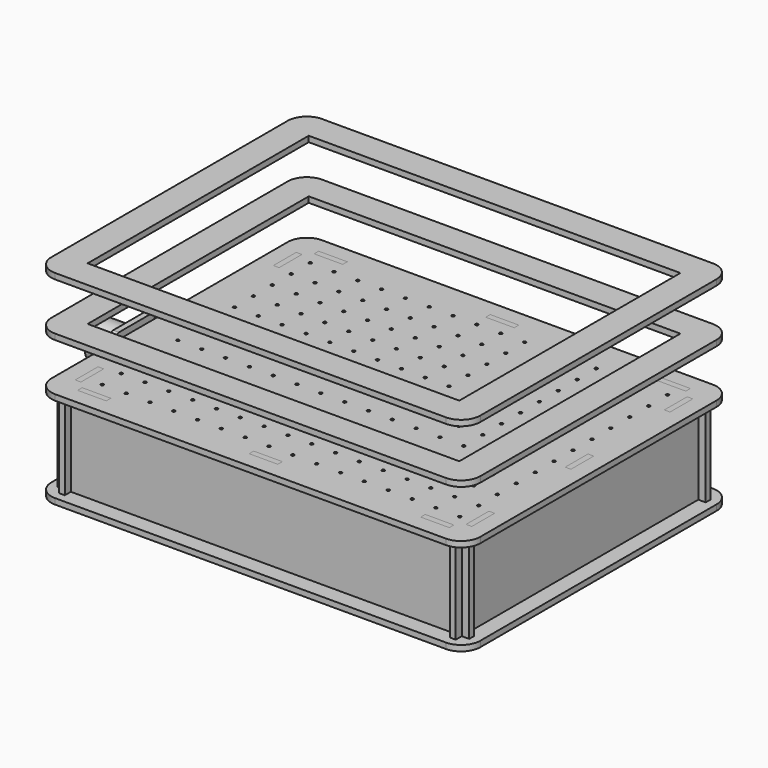
from build123d import *

# Parameters (mm, degrees)
F0_W      = 30
F0_H      = 5.8
F0_R      = 1.5
F0_W_2    = 5.8
F0_H_2    = 30
F1_DEPTH  = 6
F3_W      = 30
F3_H      = 5.8
F3_W_2    = 5.8
F3_H_2    = 30
F4_DEPTH  = 6
F7_DEPTH  = 6
F10_DEPTH = 6
F14_DEPTH = 3
F16_DEPTH = 3
F18_W     = 390
F18_H     = 290
F19_DEPTH = 6
F22_R     = 20
F22_R_2   = 2
F23_DEPTH = 12.5
F25_R     = 20
F25_R_2   = 17.5
F26_DEPTH = 40
F25_R_3   = 2
F27_DEPTH = 6


with BuildPart() as f1:
    # F0 (on Top) → F1 (new body)
    with BuildSketch(Plane.XY):
        with BuildLine():
            ThreePointArc((225, 155), (219.1421356237, 169.1421356237), (205, 175))
            Line((205, 175), (-205, 175))
            ThreePointArc((-205, 175), (-219.1421356237, 169.1421356237), (-225, 155))
            Line((-225, 155), (-225, -155))
            ThreePointArc((-225, -155), (-219.1421356237, -169.1421356237), (-205, -175))
            Line((-205, -175), (205, -175))
            ThreePointArc((205, -175), (219.1421356237, -169.1421356237), (225, -155))
            Line((225, -155), (225, 155))
        make_face()
        with Locations((-180, -155)):
            Rectangle(F0_W, F0_H, mode=Mode.SUBTRACT)
        with Locations((-185.6034933766, -137.4934603997)):
            Circle(F0_R, mode=Mode.SUBTRACT)
        with Locations((-160.6034933766, -137.4934603997)):
            Circle(F0_R, mode=Mode.SUBTRACT)
        with Locations((-135.6034933766, -137.4934603997)):
            Circle(F0_R, mode=Mode.SUBTRACT)
        with Locations((-205, -130)):
            Rectangle(F0_W_2, F0_H_2, mode=Mode.SUBTRACT)
        with Locations((-185.7759030696, -112.4940549089)):
            Circle(F0_R, mode=Mode.SUBTRACT)
        with Locations((-160.7759030696, -112.4940549089)):
            Circle(F0_R, mode=Mode.SUBTRACT)
        with Locations((-135.7759030696, -112.4940549089)):
            Circle(F0_R, mode=Mode.SUBTRACT)
        with Locations((-110.6034933766, -137.4934603997)):
            Circle(F0_R, mode=Mode.SUBTRACT)
        with Locations((-85.6034933766, -137.4934603997)):
            Circle(F0_R, mode=Mode.SUBTRACT)
        with Locations((-60.6034933766, -137.4934603997)):
            Circle(F0_R, mode=Mode.SUBTRACT)
        with Locations((-35.6034933766, -137.4934603997)):
            Circle(F0_R, mode=Mode.SUBTRACT)
        with Locations((-10.6034933766, -137.4934603997)):
            Circle(F0_R, mode=Mode.SUBTRACT)
        with Locations((-110.7759030696, -112.4940549089)):
            Circle(F0_R, mode=Mode.SUBTRACT)
        with Locations((-85.7759030696, -112.4940549089)):
            Circle(F0_R, mode=Mode.SUBTRACT)
        with Locations((-60.7759030696, -112.4940549089)):
            Circle(F0_R, mode=Mode.SUBTRACT)
        with Locations((-35.7759030696, -112.4940549089)):
            Circle(F0_R, mode=Mode.SUBTRACT)
        with Locations((-10.7759030696, -112.4940549089)):
            Circle(F0_R, mode=Mode.SUBTRACT)
        with Locations((-185.9483127626, -87.494649418)):
            Circle(F0_R, mode=Mode.SUBTRACT)
        with Locations((-186.1207224557, -62.4952439271)):
            Circle(F0_R, mode=Mode.SUBTRACT)
        with Locations((-160.9483127626, -87.494649418)):
            Circle(F0_R, mode=Mode.SUBTRACT)
        with Locations((-135.9483127626, -87.494649418)):
            Circle(F0_R, mode=Mode.SUBTRACT)
        with Locations((-161.1207224557, -62.4952439271)):
            Circle(F0_R, mode=Mode.SUBTRACT)
        with Locations((-136.1207224557, -62.4952439271)):
            Circle(F0_R, mode=Mode.SUBTRACT)
        with Locations((-186.2931321487, -37.4958384362)):
            Circle(F0_R, mode=Mode.SUBTRACT)
        with Locations((-186.4655418418, -12.4964329453)):
            Circle(F0_R, mode=Mode.SUBTRACT)
        with Locations((-161.2931321487, -37.4958384362)):
            Circle(F0_R, mode=Mode.SUBTRACT)
        with Locations((-136.2931321487, -37.4958384362)):
            Circle(F0_R, mode=Mode.SUBTRACT)
        with Locations((-161.4655418418, -12.4964329453)):
            Circle(F0_R, mode=Mode.SUBTRACT)
        with Locations((-136.4655418418, -12.4964329453)):
            Circle(F0_R, mode=Mode.SUBTRACT)
        with Locations((-110.9483127626, -87.494649418)):
            Circle(F0_R, mode=Mode.SUBTRACT)
        with Locations((-85.9483127626, -87.494649418)):
            Circle(F0_R, mode=Mode.SUBTRACT)
        with Locations((-60.9483127626, -87.494649418)):
            Circle(F0_R, mode=Mode.SUBTRACT)
        with Locations((-111.1207224557, -62.4952439271)):
            Circle(F0_R, mode=Mode.SUBTRACT)
        with Locations((-86.1207224557, -62.4952439271)):
            Circle(F0_R, mode=Mode.SUBTRACT)
        with Locations((-61.1207224557, -62.4952439271)):
            Circle(F0_R, mode=Mode.SUBTRACT)
        with Locations((-35.9483127626, -87.494649418)):
            Circle(F0_R, mode=Mode.SUBTRACT)
        with Locations((-10.9483127626, -87.494649418)):
            Circle(F0_R, mode=Mode.SUBTRACT)
        with Locations((-36.1207224557, -62.4952439271)):
            Circle(F0_R, mode=Mode.SUBTRACT)
        with Locations((-11.1207224557, -62.4952439271)):
            Circle(F0_R, mode=Mode.SUBTRACT)
        with Locations((-111.2931321487, -37.4958384362)):
            Circle(F0_R, mode=Mode.SUBTRACT)
        with Locations((-86.2931321487, -37.4958384362)):
            Circle(F0_R, mode=Mode.SUBTRACT)
        with Locations((-61.2931321487, -37.4958384362)):
            Circle(F0_R, mode=Mode.SUBTRACT)
        with Locations((-111.4655418418, -12.4964329453)):
            Circle(F0_R, mode=Mode.SUBTRACT)
        with Locations((-86.4655418418, -12.4964329453)):
            Circle(F0_R, mode=Mode.SUBTRACT)
        with Locations((-61.4655418418, -12.4964329453)):
            Circle(F0_R, mode=Mode.SUBTRACT)
        with Locations((-36.2931321487, -37.4958384362)):
            Circle(F0_R, mode=Mode.SUBTRACT)
        with Locations((-11.2931321487, -37.4958384362)):
            Circle(F0_R, mode=Mode.SUBTRACT)
        with Locations((-36.4655418418, -12.4964329453)):
            Circle(F0_R, mode=Mode.SUBTRACT)
        with Locations((-11.4655418418, -12.4964329453)):
            Circle(F0_R, mode=Mode.SUBTRACT)
        with Locations((0, -155)):
            Rectangle(F0_W, F0_H, mode=Mode.SUBTRACT)
        with Locations((14.3965066234, -137.4934603997)):
            Circle(F0_R, mode=Mode.SUBTRACT)
        with Locations((39.3965066234, -137.4934603997)):
            Circle(F0_R, mode=Mode.SUBTRACT)
        with Locations((64.3965066234, -137.4934603997)):
            Circle(F0_R, mode=Mode.SUBTRACT)
        with Locations((89.3965066234, -137.4934603997)):
            Circle(F0_R, mode=Mode.SUBTRACT)
        with Locations((14.2240969304, -112.4940549089)):
            Circle(F0_R, mode=Mode.SUBTRACT)
        with Locations((39.2240969304, -112.4940549089)):
            Circle(F0_R, mode=Mode.SUBTRACT)
        with Locations((64.2240969304, -112.4940549089)):
            Circle(F0_R, mode=Mode.SUBTRACT)
        with Locations((89.2240969304, -112.4940549089)):
            Circle(F0_R, mode=Mode.SUBTRACT)
        with Locations((114.3965066234, -137.4934603997)):
            Circle(F0_R, mode=Mode.SUBTRACT)
        with Locations((139.3965066234, -137.4934603997)):
            Circle(F0_R, mode=Mode.SUBTRACT)
        with Locations((164.3965066234, -137.4934603997)):
            Circle(F0_R, mode=Mode.SUBTRACT)
        with Locations((180, -155)):
            Rectangle(F0_W, F0_H, mode=Mode.SUBTRACT)
        with Locations((189.3965066234, -137.4934603997)):
            Circle(F0_R, mode=Mode.SUBTRACT)
        with Locations((114.2240969304, -112.4940549089)):
            Circle(F0_R, mode=Mode.SUBTRACT)
        with Locations((139.2240969304, -112.4940549089)):
            Circle(F0_R, mode=Mode.SUBTRACT)
        with Locations((164.2240969304, -112.4940549089)):
            Circle(F0_R, mode=Mode.SUBTRACT)
        with Locations((189.2240969304, -112.4940549089)):
            Circle(F0_R, mode=Mode.SUBTRACT)
        with Locations((205, -130)):
            Rectangle(F0_W_2, F0_H_2, mode=Mode.SUBTRACT)
        with Locations((14.0516872374, -87.494649418)):
            Circle(F0_R, mode=Mode.SUBTRACT)
        with Locations((39.0516872374, -87.494649418)):
            Circle(F0_R, mode=Mode.SUBTRACT)
        with Locations((13.8792775443, -62.4952439271)):
            Circle(F0_R, mode=Mode.SUBTRACT)
        with Locations((38.8792775443, -62.4952439271)):
            Circle(F0_R, mode=Mode.SUBTRACT)
        with Locations((64.0516872374, -87.494649418)):
            Circle(F0_R, mode=Mode.SUBTRACT)
        with Locations((89.0516872374, -87.494649418)):
            Circle(F0_R, mode=Mode.SUBTRACT)
        with Locations((63.8792775443, -62.4952439271)):
            Circle(F0_R, mode=Mode.SUBTRACT)
        with Locations((88.8792775443, -62.4952439271)):
            Circle(F0_R, mode=Mode.SUBTRACT)
        with Locations((13.7068678513, -37.4958384362)):
            Circle(F0_R, mode=Mode.SUBTRACT)
        with Locations((38.7068678513, -37.4958384362)):
            Circle(F0_R, mode=Mode.SUBTRACT)
        with Locations((13.5344581582, -12.4964329453)):
            Circle(F0_R, mode=Mode.SUBTRACT)
        with Locations((38.5344581582, -12.4964329453)):
            Circle(F0_R, mode=Mode.SUBTRACT)
        with Locations((63.7068678513, -37.4958384362)):
            Circle(F0_R, mode=Mode.SUBTRACT)
        with Locations((88.7068678513, -37.4958384362)):
            Circle(F0_R, mode=Mode.SUBTRACT)
        with Locations((63.5344581582, -12.4964329453)):
            Circle(F0_R, mode=Mode.SUBTRACT)
        with Locations((88.5344581582, -12.4964329453)):
            Circle(F0_R, mode=Mode.SUBTRACT)
        with Locations((114.0516872374, -87.494649418)):
            Circle(F0_R, mode=Mode.SUBTRACT)
        with Locations((139.0516872374, -87.494649418)):
            Circle(F0_R, mode=Mode.SUBTRACT)
        with Locations((164.0516872374, -87.494649418)):
            Circle(F0_R, mode=Mode.SUBTRACT)
        with Locations((113.8792775443, -62.4952439271)):
            Circle(F0_R, mode=Mode.SUBTRACT)
        with Locations((138.8792775443, -62.4952439271)):
            Circle(F0_R, mode=Mode.SUBTRACT)
        with Locations((163.8792775443, -62.4952439271)):
            Circle(F0_R, mode=Mode.SUBTRACT)
        with Locations((189.0516872374, -87.494649418)):
            Circle(F0_R, mode=Mode.SUBTRACT)
        with Locations((188.8792775443, -62.4952439271)):
            Circle(F0_R, mode=Mode.SUBTRACT)
        with Locations((113.7068678513, -37.4958384362)):
            Circle(F0_R, mode=Mode.SUBTRACT)
        with Locations((138.7068678513, -37.4958384362)):
            Circle(F0_R, mode=Mode.SUBTRACT)
        with Locations((163.7068678513, -37.4958384362)):
            Circle(F0_R, mode=Mode.SUBTRACT)
        with Locations((113.5344581582, -12.4964329453)):
            Circle(F0_R, mode=Mode.SUBTRACT)
        with Locations((138.5344581582, -12.4964329453)):
            Circle(F0_R, mode=Mode.SUBTRACT)
        with Locations((163.5344581582, -12.4964329453)):
            Circle(F0_R, mode=Mode.SUBTRACT)
        with Locations((188.7068678513, -37.4958384362)):
            Circle(F0_R, mode=Mode.SUBTRACT)
        with Locations((188.5344581582, -12.4964329453)):
            Circle(F0_R, mode=Mode.SUBTRACT)
        with Locations((-205, 0)):
            Rectangle(F0_W_2, F0_H_2, mode=Mode.SUBTRACT)
        with Locations((-186.6379515348, 12.5029725456)):
            Circle(F0_R, mode=Mode.SUBTRACT)
        with Locations((-186.8103612278, 37.5023780365)):
            Circle(F0_R, mode=Mode.SUBTRACT)
        with Locations((-161.6379515348, 12.5029725456)):
            Circle(F0_R, mode=Mode.SUBTRACT)
        with Locations((-136.6379515348, 12.5029725456)):
            Circle(F0_R, mode=Mode.SUBTRACT)
        with Locations((-161.8103612278, 37.5023780365)):
            Circle(F0_R, mode=Mode.SUBTRACT)
        with Locations((-136.8103612278, 37.5023780365)):
            Circle(F0_R, mode=Mode.SUBTRACT)
        with Locations((-186.9827709209, 62.5017835273)):
            Circle(F0_R, mode=Mode.SUBTRACT)
        with Locations((-161.9827709209, 62.5017835273)):
            Circle(F0_R, mode=Mode.SUBTRACT)
        with Locations((-136.9827709209, 62.5017835273)):
            Circle(F0_R, mode=Mode.SUBTRACT)
        with Locations((-111.6379515348, 12.5029725456)):
            Circle(F0_R, mode=Mode.SUBTRACT)
        with Locations((-86.6379515348, 12.5029725456)):
            Circle(F0_R, mode=Mode.SUBTRACT)
        with Locations((-61.6379515348, 12.5029725456)):
            Circle(F0_R, mode=Mode.SUBTRACT)
        with Locations((-111.8103612278, 37.5023780365)):
            Circle(F0_R, mode=Mode.SUBTRACT)
        with Locations((-86.8103612278, 37.5023780365)):
            Circle(F0_R, mode=Mode.SUBTRACT)
        with Locations((-61.8103612278, 37.5023780365)):
            Circle(F0_R, mode=Mode.SUBTRACT)
        with Locations((-36.6379515348, 12.5029725456)):
            Circle(F0_R, mode=Mode.SUBTRACT)
        with Locations((-11.6379515348, 12.5029725456)):
            Circle(F0_R, mode=Mode.SUBTRACT)
        with Locations((-36.8103612278, 37.5023780365)):
            Circle(F0_R, mode=Mode.SUBTRACT)
        with Locations((-11.8103612278, 37.5023780365)):
            Circle(F0_R, mode=Mode.SUBTRACT)
        with Locations((-111.9827709209, 62.5017835273)):
            Circle(F0_R, mode=Mode.SUBTRACT)
        with Locations((-86.9827709209, 62.5017835273)):
            Circle(F0_R, mode=Mode.SUBTRACT)
        with Locations((-61.9827709209, 62.5017835273)):
            Circle(F0_R, mode=Mode.SUBTRACT)
        with Locations((-36.9827709209, 62.5017835273)):
            Circle(F0_R, mode=Mode.SUBTRACT)
        with Locations((-11.9827709209, 62.5017835273)):
            Circle(F0_R, mode=Mode.SUBTRACT)
        with Locations((-187.1551806139, 87.5011890182)):
            Circle(F0_R, mode=Mode.SUBTRACT)
        with Locations((-205, 130)):
            Rectangle(F0_W_2, F0_H_2, mode=Mode.SUBTRACT)
        with Locations((-187.327590307, 112.5005945091)):
            Circle(F0_R, mode=Mode.SUBTRACT)
        with Locations((-162.1551806139, 87.5011890182)):
            Circle(F0_R, mode=Mode.SUBTRACT)
        with Locations((-137.1551806139, 87.5011890182)):
            Circle(F0_R, mode=Mode.SUBTRACT)
        with Locations((-162.327590307, 112.5005945091)):
            Circle(F0_R, mode=Mode.SUBTRACT)
        with Locations((-137.327590307, 112.5005945091)):
            Circle(F0_R, mode=Mode.SUBTRACT)
        with Locations((-187.5, 137.5)):
            Circle(F0_R, mode=Mode.SUBTRACT)
        with Locations((-180, 155)):
            Rectangle(F0_W, F0_H, mode=Mode.SUBTRACT)
        with Locations((-162.5, 137.5)):
            Circle(F0_R, mode=Mode.SUBTRACT)
        with Locations((-137.5, 137.5)):
            Circle(F0_R, mode=Mode.SUBTRACT)
        with Locations((-112.1551806139, 87.5011890182)):
            Circle(F0_R, mode=Mode.SUBTRACT)
        with Locations((-87.1551806139, 87.5011890182)):
            Circle(F0_R, mode=Mode.SUBTRACT)
        with Locations((-62.1551806139, 87.5011890182)):
            Circle(F0_R, mode=Mode.SUBTRACT)
        with Locations((-112.327590307, 112.5005945091)):
            Circle(F0_R, mode=Mode.SUBTRACT)
        with Locations((-87.327590307, 112.5005945091)):
            Circle(F0_R, mode=Mode.SUBTRACT)
        with Locations((-62.327590307, 112.5005945091)):
            Circle(F0_R, mode=Mode.SUBTRACT)
        with Locations((-37.1551806139, 87.5011890182)):
            Circle(F0_R, mode=Mode.SUBTRACT)
        with Locations((-12.1551806139, 87.5011890182)):
            Circle(F0_R, mode=Mode.SUBTRACT)
        with Locations((-37.327590307, 112.5005945091)):
            Circle(F0_R, mode=Mode.SUBTRACT)
        with Locations((-12.327590307, 112.5005945091)):
            Circle(F0_R, mode=Mode.SUBTRACT)
        with Locations((-112.5, 137.5)):
            Circle(F0_R, mode=Mode.SUBTRACT)
        with Locations((-87.5, 137.5)):
            Circle(F0_R, mode=Mode.SUBTRACT)
        with Locations((-62.5, 137.5)):
            Circle(F0_R, mode=Mode.SUBTRACT)
        with Locations((-37.5, 137.5)):
            Circle(F0_R, mode=Mode.SUBTRACT)
        with Locations((-12.5, 137.5)):
            Circle(F0_R, mode=Mode.SUBTRACT)
        with Locations((13.3620484652, 12.5029725456)):
            Circle(F0_R, mode=Mode.SUBTRACT)
        with Locations((38.3620484652, 12.5029725456)):
            Circle(F0_R, mode=Mode.SUBTRACT)
        with Locations((13.1896387722, 37.5023780365)):
            Circle(F0_R, mode=Mode.SUBTRACT)
        with Locations((38.1896387722, 37.5023780365)):
            Circle(F0_R, mode=Mode.SUBTRACT)
        with Locations((63.3620484652, 12.5029725456)):
            Circle(F0_R, mode=Mode.SUBTRACT)
        with Locations((88.3620484652, 12.5029725456)):
            Circle(F0_R, mode=Mode.SUBTRACT)
        with Locations((63.1896387722, 37.5023780365)):
            Circle(F0_R, mode=Mode.SUBTRACT)
        with Locations((88.1896387722, 37.5023780365)):
            Circle(F0_R, mode=Mode.SUBTRACT)
        with Locations((13.0172290791, 62.5017835273)):
            Circle(F0_R, mode=Mode.SUBTRACT)
        with Locations((38.0172290791, 62.5017835273)):
            Circle(F0_R, mode=Mode.SUBTRACT)
        with Locations((63.0172290791, 62.5017835273)):
            Circle(F0_R, mode=Mode.SUBTRACT)
        with Locations((88.0172290791, 62.5017835273)):
            Circle(F0_R, mode=Mode.SUBTRACT)
        with Locations((113.3620484652, 12.5029725456)):
            Circle(F0_R, mode=Mode.SUBTRACT)
        with Locations((138.3620484652, 12.5029725456)):
            Circle(F0_R, mode=Mode.SUBTRACT)
        with Locations((163.3620484652, 12.5029725456)):
            Circle(F0_R, mode=Mode.SUBTRACT)
        with Locations((113.1896387722, 37.5023780365)):
            Circle(F0_R, mode=Mode.SUBTRACT)
        with Locations((138.1896387722, 37.5023780365)):
            Circle(F0_R, mode=Mode.SUBTRACT)
        with Locations((163.1896387722, 37.5023780365)):
            Circle(F0_R, mode=Mode.SUBTRACT)
        with Locations((188.3620484652, 12.5029725456)):
            Circle(F0_R, mode=Mode.SUBTRACT)
        with Locations((205, 0)):
            Rectangle(F0_W_2, F0_H_2, mode=Mode.SUBTRACT)
        with Locations((188.1896387722, 37.5023780365)):
            Circle(F0_R, mode=Mode.SUBTRACT)
        with Locations((113.0172290791, 62.5017835273)):
            Circle(F0_R, mode=Mode.SUBTRACT)
        with Locations((138.0172290791, 62.5017835273)):
            Circle(F0_R, mode=Mode.SUBTRACT)
        with Locations((163.0172290791, 62.5017835273)):
            Circle(F0_R, mode=Mode.SUBTRACT)
        with Locations((188.0172290791, 62.5017835273)):
            Circle(F0_R, mode=Mode.SUBTRACT)
        with Locations((12.8448193861, 87.5011890182)):
            Circle(F0_R, mode=Mode.SUBTRACT)
        with Locations((37.8448193861, 87.5011890182)):
            Circle(F0_R, mode=Mode.SUBTRACT)
        with Locations((12.672409693, 112.5005945091)):
            Circle(F0_R, mode=Mode.SUBTRACT)
        with Locations((37.672409693, 112.5005945091)):
            Circle(F0_R, mode=Mode.SUBTRACT)
        with Locations((62.8448193861, 87.5011890182)):
            Circle(F0_R, mode=Mode.SUBTRACT)
        with Locations((87.8448193861, 87.5011890182)):
            Circle(F0_R, mode=Mode.SUBTRACT)
        with Locations((62.672409693, 112.5005945091)):
            Circle(F0_R, mode=Mode.SUBTRACT)
        with Locations((87.672409693, 112.5005945091)):
            Circle(F0_R, mode=Mode.SUBTRACT)
        with Locations((12.5, 137.5)):
            Circle(F0_R, mode=Mode.SUBTRACT)
        with Locations((37.5, 137.5)):
            Circle(F0_R, mode=Mode.SUBTRACT)
        with Locations((0, 155)):
            Rectangle(F0_W, F0_H, mode=Mode.SUBTRACT)
        with Locations((62.5, 137.5)):
            Circle(F0_R, mode=Mode.SUBTRACT)
        with Locations((87.5, 137.5)):
            Circle(F0_R, mode=Mode.SUBTRACT)
        with Locations((112.8448193861, 87.5011890182)):
            Circle(F0_R, mode=Mode.SUBTRACT)
        with Locations((137.8448193861, 87.5011890182)):
            Circle(F0_R, mode=Mode.SUBTRACT)
        with Locations((162.8448193861, 87.5011890182)):
            Circle(F0_R, mode=Mode.SUBTRACT)
        with Locations((112.672409693, 112.5005945091)):
            Circle(F0_R, mode=Mode.SUBTRACT)
        with Locations((137.672409693, 112.5005945091)):
            Circle(F0_R, mode=Mode.SUBTRACT)
        with Locations((162.672409693, 112.5005945091)):
            Circle(F0_R, mode=Mode.SUBTRACT)
        with Locations((187.8448193861, 87.5011890182)):
            Circle(F0_R, mode=Mode.SUBTRACT)
        with Locations((187.672409693, 112.5005945091)):
            Circle(F0_R, mode=Mode.SUBTRACT)
        with Locations((205, 130)):
            Rectangle(F0_W_2, F0_H_2, mode=Mode.SUBTRACT)
        with Locations((112.5, 137.5)):
            Circle(F0_R, mode=Mode.SUBTRACT)
        with Locations((137.5, 137.5)):
            Circle(F0_R, mode=Mode.SUBTRACT)
        with Locations((162.5, 137.5)):
            Circle(F0_R, mode=Mode.SUBTRACT)
        with Locations((187.5, 137.5)):
            Circle(F0_R, mode=Mode.SUBTRACT)
        with Locations((180, 155)):
            Rectangle(F0_W, F0_H, mode=Mode.SUBTRACT)
    extrude(amount=F1_DEPTH)


with BuildPart() as f4:
    # F3 (on offset) → F4 (new body)
    with BuildSketch(Plane.XY.offset(-90)):
        with BuildLine():
            ThreePointArc((225, 155), (219.1421356237, 169.1421356237), (205, 175))
            Line((205, 175), (-205, 175))
            ThreePointArc((-205, 175), (-219.1421356237, 169.1421356237), (-225, 155))
            Line((-225, 155), (-225, -155))
            ThreePointArc((-225, -155), (-219.1421356237, -169.1421356237), (-205, -175))
            Line((-205, -175), (205, -175))
            ThreePointArc((205, -175), (219.1421356237, -169.1421356237), (225, -155))
            Line((225, -155), (225, 155))
        make_face()
        with Locations((-180, -155)):
            Rectangle(F3_W, F3_H, mode=Mode.SUBTRACT)
        with Locations((-205, -130)):
            Rectangle(F3_W_2, F3_H_2, mode=Mode.SUBTRACT)
        with Locations((0, -155)):
            Rectangle(F3_W, F3_H, mode=Mode.SUBTRACT)
        with Locations((180, -155)):
            Rectangle(F3_W, F3_H, mode=Mode.SUBTRACT)
        with Locations((205, -130)):
            Rectangle(F3_W_2, F3_H_2, mode=Mode.SUBTRACT)
        with Locations((-205, 0)):
            Rectangle(F3_W_2, F3_H_2, mode=Mode.SUBTRACT)
        with Locations((-205, 130)):
            Rectangle(F3_W_2, F3_H_2, mode=Mode.SUBTRACT)
        with Locations((-180, 155)):
            Rectangle(F3_W, F3_H, mode=Mode.SUBTRACT)
        with Locations((205, 0)):
            Rectangle(F3_W_2, F3_H_2, mode=Mode.SUBTRACT)
        with Locations((0, 155)):
            Rectangle(F3_W, F3_H, mode=Mode.SUBTRACT)
        with Locations((205, 130)):
            Rectangle(F3_W_2, F3_H_2, mode=Mode.SUBTRACT)
        with Locations((180, 155)):
            Rectangle(F3_W, F3_H, mode=Mode.SUBTRACT)
    extrude(amount=-F4_DEPTH)


with BuildPart() as f7:
    # F6 (on offset) → F7 (new body)
    with BuildSketch(Plane.XZ.offset(152.1)):
        Polygon((-15, 0), (-165, 0), (-165, 6), (-195, 6), (-195, 0), (-215.9, 0), (-215.9, -90), (-207.9, -90), (-207.9, -45), (-201.9, -45), (-201.9, -90), (-195, -90), (-195, -96), (-165, -96), (-165, -90), (-15, -90), (-15, -96), (15, -96), (15, -90), (165, -90), (165, -96), (195, -96), (195, -90), (201.9, -90), (201.9, -45), (207.9, -45), (207.9, -90), (215.9, -90), (215.9, 0), (195, 0), (195, 6), (165, 6), (165, 0), (15, 0), (15, 6), (-15, 6), align=None)
    extrude(amount=F7_DEPTH)


with BuildPart() as f10:
    # F9 (on offset) → F10 (new body)
    with BuildSketch(Plane(origin=(-202.1, 0, 0), x_dir=(0, -1, 0), z_dir=(-1, 0, 0))):
        Polygon((-15, 0), (-115, 0), (-115, 6), (-145, 6), (-145, 0), (-152.1, 0), (-152.1, -45), (-158.1, -45), (-158.1, 0), (-166.1, 0), (-166.1, -90), (-145, -90), (-145, -96), (-115, -96), (-115, -90), (-15, -90), (-15, -96), (15, -96), (15, -90), (115, -90), (115, -96), (145, -96), (145, -90), (166.1, -90), (166.1, 0), (158.1, 0), (158.1, -45), (152.1, -45), (152.1, 0), (145, 0), (145, 6), (115, 6), (115, 0), (15, 0), (15, 6), (-15, 6), align=None)
    extrude(amount=F10_DEPTH)


with BuildPart() as f11_1:
    # F11: instance of F10
    add(f10.part.mirror(Plane.YZ))


with BuildPart() as f12_1:
    # F12: instance of F7
    add(f7.part.mirror(Plane.XZ))


with BuildPart() as f14:
    # F13 (on Front) → F14 (new body, symmetric)
    with BuildSketch(Plane.XZ):
        Polygon((30, 0), (-30, 0), (-30, -90), (-3, -90), (-3, -45), (3, -45), (3, -90), (30, -90), align=None)
    extrude(amount=F14_DEPTH, both=True)


with BuildPart() as f16:
    # F15 (on Right) → F16 (new body, symmetric)
    with BuildSketch(Plane.YZ):
        Polygon((-3.9557486326, 0), (-30.9557486326, 0), (-30.9557486326, -90), (29.0442513674, -90), (29.0442513674, 0), (2.0442513674, 0), (2.0442513674, -45), (-3.9557486326, -45), align=None)
    extrude(amount=F16_DEPTH, both=True)


with BuildPart() as f19:
    # F18 (on offset) → F19 (new body)
    with BuildSketch(Plane.XY.offset(56)):
        with BuildLine():
            ThreePointArc((225, 155), (219.1421356237, 169.1421356237), (205, 175))
            Line((205, 175), (-205, 175))
            ThreePointArc((-205, 175), (-219.1421356237, 169.1421356237), (-225, 155))
            Line((-225, 155), (-225, -155))
            ThreePointArc((-225, -155), (-219.1421356237, -169.1421356237), (-205, -175))
            Line((-205, -175), (205, -175))
            ThreePointArc((205, -175), (219.1421356237, -169.1421356237), (225, -155))
            Line((225, -155), (225, 155))
        make_face()
        Rectangle(F18_W, F18_H, mode=Mode.SUBTRACT)
    extrude(amount=F19_DEPTH)


with BuildPart() as f20_1:
    # F20: instance of F19
    add(f19.part.mirror(Plane.XY.offset(62)))


with BuildPart() as f20_1_1:
    # F21: moved
    add(f20_1.part.moved(Location((0, 0, 50))))


with BuildPart() as f10_1:
    add(f10.part)

    # F22 (on face) → F23 (cut, symmetric)
    with BuildSketch(Plane(origin=(-208.1, 0, 0), x_dir=(0, -1, 0), z_dir=(-1, 0, 0))):
        with Locations((0, -45)):
            Circle(F22_R)
        with Locations((-23.6705430225, -21.3294569775)):
            Circle(F22_R_2)
        with Locations((23.6705430225, -21.3294569775)):
            Circle(F22_R_2)
        with Locations((23.6705430225, -68.6705430225)):
            Circle(F22_R_2)
        with Locations((-23.6705430225, -68.6705430225)):
            Circle(F22_R_2)
    extrude(amount=F23_DEPTH, both=True, mode=Mode.SUBTRACT)


with BuildPart() as f26:
    # F25 (on offset) → F26 (new body)
    with BuildSketch(Plane(origin=(-258.1, 0, 0), x_dir=(0, -1, 0), z_dir=(-1, 0, 0))):
        with Locations((0, -45)):
            Circle(F25_R)
        with Locations((0, -45)):
            Circle(F25_R_2, mode=Mode.SUBTRACT)
    extrude(amount=F26_DEPTH)

    # F25 (on offset) → F27 (join)
    with BuildSketch(Plane(origin=(-258.1, 0, 0), x_dir=(0, -1, 0), z_dir=(-1, 0, 0))):
        with BuildLine():
            Line((25, -15), (-25, -15))
            ThreePointArc((-25, -15), (-28.5355339059, -16.4644660941), (-30, -20))
            Line((-30, -20), (-30, -70))
            ThreePointArc((-30, -70), (-28.5355339059, -73.5355339059), (-25, -75))
            Line((-25, -75), (25, -75))
            ThreePointArc((25, -75), (28.5355339059, -73.5355339059), (30, -70))
            Line((30, -70), (30, -20))
            ThreePointArc((30, -20), (28.5355339059, -16.4644660941), (25, -15))
        make_face()
        with Locations((-23.6705430225, -68.6705430225)):
            Circle(F25_R_3, mode=Mode.SUBTRACT)
        with Locations((23.6705430225, -68.6705430225)):
            Circle(F25_R_3, mode=Mode.SUBTRACT)
        with Locations((0, -45)):
            Circle(F25_R, mode=Mode.SUBTRACT)
        with Locations((-23.6705430225, -21.3294569775)):
            Circle(F25_R_3, mode=Mode.SUBTRACT)
        with Locations((23.6705430225, -21.3294569775)):
            Circle(F25_R_3, mode=Mode.SUBTRACT)
    extrude(amount=F27_DEPTH)


solid = Compound([f1.part, f4.part, f7.part, f11_1.part, f12_1.part, f14.part, f16.part, f19.part, f20_1_1.part, f10_1.part, f26.part])
